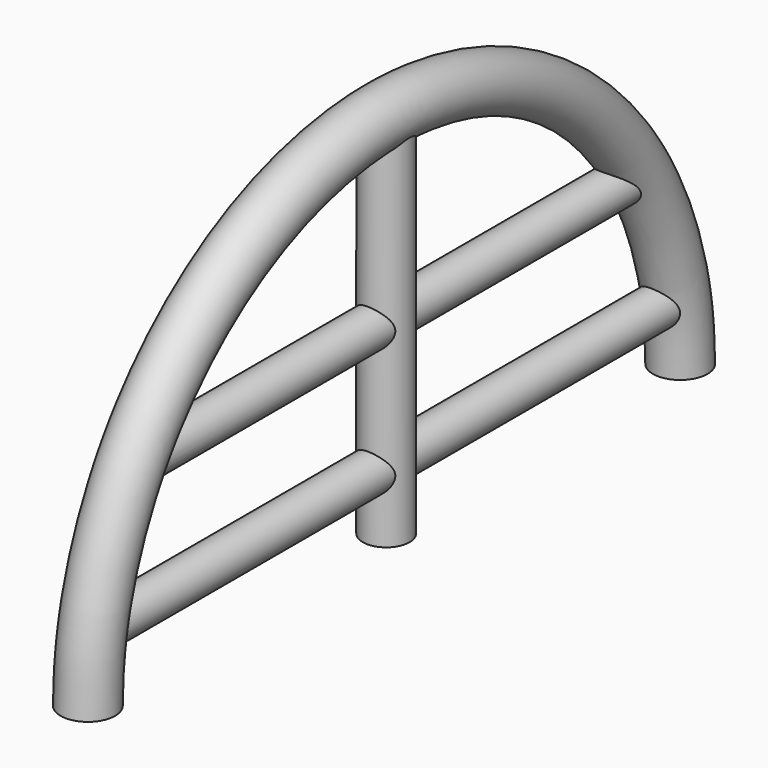
from build123d import *

# Parameters (mm, degrees)
F1_R     = 3.5
F3_R     = 3
F4_DEPTH = 46
F5_R     = 2.5
F6_DEPTH = 40.5
F7_R     = 2.5
F8_DEPTH = 45


with BuildPart() as f2:
    # F2: sweep along a path in F0
    with BuildLine(Plane.YZ) as f2_path:
        ThreePointArc((44.654696, 0), (-0.345304, 45), (-45.345304, 0))
    # F1 (on Top) → F2 (sweep)
    with BuildSketch(Plane.XY):
        with Locations((0, -47.845304)):
            Circle(F1_R)
    sweep(path=f2_path.line)

    # F3 (on Top) → F4 (join)
    with BuildSketch(Plane.XY):
        Circle(F3_R)
    extrude(amount=F4_DEPTH)

    # F5 (on Front) → F6 (join, symmetric)
    with BuildSketch(Plane.XZ):
        with Locations((0, 24.36039)):
            Circle(F5_R)
    extrude(amount=F6_DEPTH, both=True)

    # F7 (on Front) → F8 (join, symmetric)
    with BuildSketch(Plane.XZ):
        with Locations((0, 8)):
            Circle(F7_R)
    extrude(amount=F8_DEPTH, both=True)


solid = f2.part
